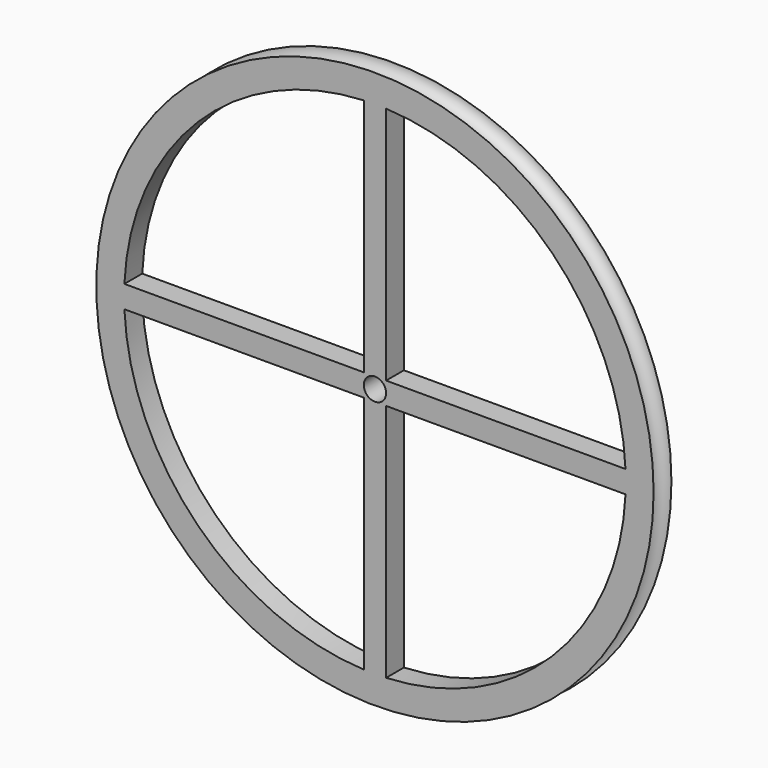
from build123d import *

# Parameters (mm, degrees)
F2_R     = 1
F3_DEPTH = 25
F5_DEPTH = 25


with BuildPart() as f1:
    # F0 (on Top) → F1 (revolve)
    with BuildSketch(Plane.XY):
        with BuildLine():
            Line((25, 0), (0, 0))
            Line((0, 0), (0, -2))
            Line((0, -2), (25, -2))
            ThreePointArc((25, -2), (24, -1), (25, 0))
        make_face()
    revolve(axis=Axis((0, -1, 0), (0, -1, 0)))

    # F2 (on face) → F3 (cut)
    with BuildSketch(Plane.XZ.offset(2)):
        Circle(F2_R)
    extrude(amount=-F3_DEPTH, mode=Mode.SUBTRACT)

    # F4 (on face) → F5 (cut)
    with BuildSketch(Plane.XZ.offset(2)):
        with BuildLine():
            Line((-1, 1), (-1, 22.477766793))
            ThreePointArc((-1, 22.477766793), (-15.9099025767, 15.9099025767), (-22.477766793, 1))
            Line((-22.477766793, 1), (-1, 1))
        make_face()
        with BuildLine():
            ThreePointArc((-22.477766793, -1), (-15.9099025767, -15.9099025767), (-1, -22.477766793))
            Line((-1, -22.477766793), (-1, -1))
            Line((-1, -1), (-22.477766793, -1))
        make_face()
        with BuildLine():
            ThreePointArc((1, -22.477766793), (15.9099025767, -15.9099025767), (22.477766793, -1))
            Line((22.477766793, -1), (1, -1))
            Line((1, -1), (1, -22.477766793))
        make_face()
        with BuildLine():
            Line((1, 1), (22.477766793, 1))
            ThreePointArc((22.477766793, 1), (15.9099025767, 15.9099025767), (1, 22.477766793))
            Line((1, 22.477766793), (1, 1))
        make_face()
    extrude(amount=-F5_DEPTH, mode=Mode.SUBTRACT)


solid = f1.part
